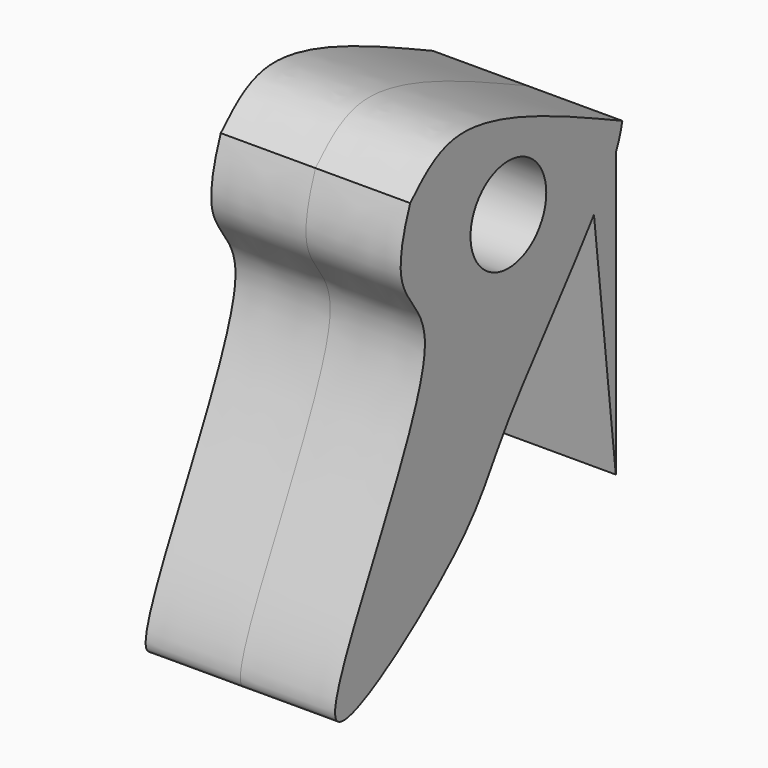
from build123d import *

# Parameters (mm, degrees)
F0_R     = 2.54
F1_DEPTH = 5.08
F2_DEPTH = 5.08


with BuildPart() as f1:
    # F0 (on Right) → F1 (new body)
    with BuildSketch(Plane.YZ):
        with BuildLine():
            add(Edge.make_bspline(
                [(5.7373761011, -2.3396002155), (6.3636757796, -1.4695139602), (6.8824801089, -0.6671431106), (7.2017014027, 0)],
                knots=[0.9726600579, 0.9726600579, 0.9726600579, 0.9726600579, 1, 1, 1, 1], degree=3))
            add(Edge.make_bspline(
                [(7.2017014027, 0), (7.43784243, 0.4935130036), (7.5647683257, 0.9130271561), (7.6394075525, 1.320772751)],
                knots=[0, 0, 0, 0, 0.0202244716, 0.0202244716, 0.0202244716, 0.0202244716], degree=3))
            add(Edge.make_bspline(
                [(-6.5845213743, 3.2176323689), (-5.7226572699, 4.074359879), (-3.3097092588, 6.4628506518), (3.3649706241, 3.3301150863), (7.6394075525, 1.320772751)],
                knots=[0, 0, 0, 0, 0.3582304762, 1, 1, 1, 1], degree=3))
            add(Edge.make_bspline(
                [(-6.5845213743, 3.2176323689), (-7.0813126232, 1.9463419947), (-7.7578226122, -1.2426403007), (-2.5552751462, -3.1323254855), (-17.3021828873, -24.8689880261), (-2.0545003286, -14.0641893523), (-1.054386327, -10.5362435767), (3.9961671701, -4.7585731298), (5.7373761011, -2.3396002155)],
                knots=[0.5175442063, 0.5175442063, 0.5175442063, 0.5175442063, 0.5513920798, 0.6141866243, 0.7335344244, 0.823407112, 0.896650836, 0.9726600579, 0.9726600579, 0.9726600579, 0.9726600579], degree=3))
        make_face()
        Circle(F0_R, mode=Mode.SUBTRACT)
        with BuildLine():
            Line((7.2017014027, -15.2059905231), (7.2017014027, 0))
            add(Edge.make_bspline(
                [(5.7373761011, -2.3396002155), (6.3636757796, -1.4695139602), (6.8824801089, -0.6671431106), (7.2017014027, 0)],
                knots=[0.9726600579, 0.9726600579, 0.9726600579, 0.9726600579, 1, 1, 1, 1], degree=3))
            Line((5.7373761011, -2.3396002155), (7.2017014027, -15.2059905231))
        make_face()
    extrude(amount=F1_DEPTH)

    # F0 (on Right) → F2 (join)
    with BuildSketch(Plane.YZ):
        with BuildLine():
            add(Edge.make_bspline(
                [(5.7373761011, -2.3396002155), (6.3636757796, -1.4695139602), (6.8824801089, -0.6671431106), (7.2017014027, 0)],
                knots=[0.9726600579, 0.9726600579, 0.9726600579, 0.9726600579, 1, 1, 1, 1], degree=3))
            add(Edge.make_bspline(
                [(7.2017014027, 0), (7.43784243, 0.4935130036), (7.5647683257, 0.9130271561), (7.6394075525, 1.320772751)],
                knots=[0, 0, 0, 0, 0.0202244716, 0.0202244716, 0.0202244716, 0.0202244716], degree=3))
            add(Edge.make_bspline(
                [(-6.5845213743, 3.2176323689), (-5.7226572699, 4.074359879), (-3.3097092588, 6.4628506518), (3.3649706241, 3.3301150863), (7.6394075525, 1.320772751)],
                knots=[0, 0, 0, 0, 0.3582304762, 1, 1, 1, 1], degree=3))
            add(Edge.make_bspline(
                [(-6.5845213743, 3.2176323689), (-7.0813126232, 1.9463419947), (-7.7578226122, -1.2426403007), (-2.5552751462, -3.1323254855), (-17.3021828873, -24.8689880261), (-2.0545003286, -14.0641893523), (-1.054386327, -10.5362435767), (3.9961671701, -4.7585731298), (5.7373761011, -2.3396002155)],
                knots=[0.5175442063, 0.5175442063, 0.5175442063, 0.5175442063, 0.5513920798, 0.6141866243, 0.7335344244, 0.823407112, 0.896650836, 0.9726600579, 0.9726600579, 0.9726600579, 0.9726600579], degree=3))
        make_face()
        Circle(F0_R, mode=Mode.SUBTRACT)
        with BuildLine():
            Line((7.2017014027, -15.2059905231), (7.2017014027, 0))
            add(Edge.make_bspline(
                [(5.7373761011, -2.3396002155), (6.3636757796, -1.4695139602), (6.8824801089, -0.6671431106), (7.2017014027, 0)],
                knots=[0.9726600579, 0.9726600579, 0.9726600579, 0.9726600579, 1, 1, 1, 1], degree=3))
            Line((5.7373761011, -2.3396002155), (7.2017014027, -15.2059905231))
        make_face()
    extrude(amount=-F2_DEPTH)


solid = f1.part
